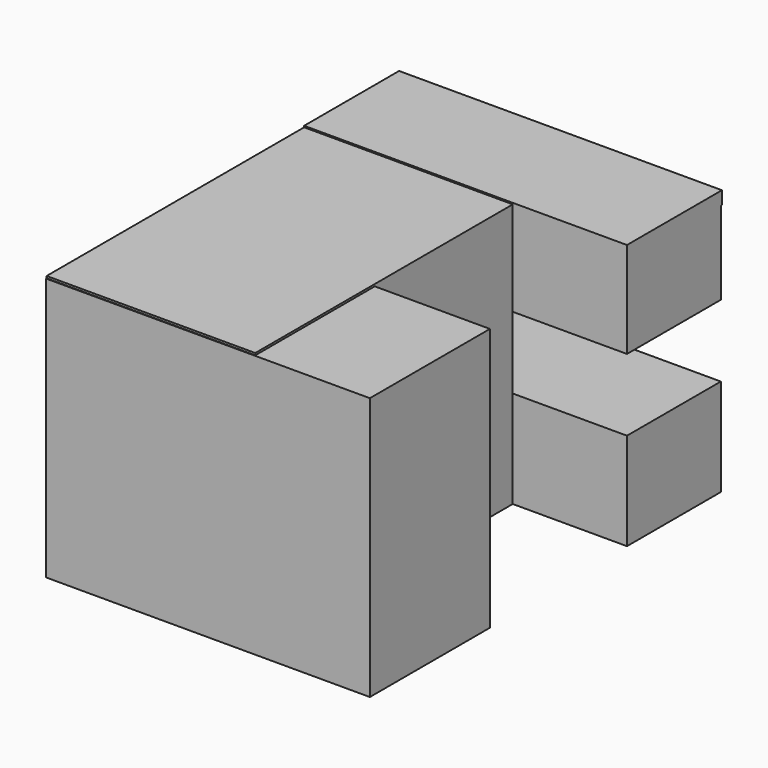
from build123d import *

# Parameters (mm, degrees)
F0_W     = 118.5401678085
F0_H     = 70.9766112268
F1_DEPTH = 56.134
F2_W     = 40.3737127781
F2_H     = 70.7922605798
F3_DEPTH = 87.122
F4_W     = 31.5654948354
F4_H     = 3.5027423874
F4_W_2   = 0.3687143326
F4_H_2   = 67.8425794467
F5_DEPTH = 86.868
F6_W     = 31.7498482764
F6_H     = 19.3572575226
F7_DEPTH = 92.71


with BuildPart() as f1:
    # F0 (on Right) → F1 (new body)
    with BuildSketch(Plane.YZ):
        with Locations((-27.3358747363, -19.541611895)):
            Rectangle(F0_W, F0_H)
    extrude(amount=F1_DEPTH)

    # F2 (on Right) → F3 (join)
    with BuildSketch(Plane.YZ):
        with Locations((-66.6034594178, -20.0025015511)):
            Rectangle(F2_W, F2_H)
    extrude(amount=F3_DEPTH)

    # F4 (on Right) → F5 (join)
    with BuildSketch(Plane.YZ):
        with Locations((15.7827474177, 14.564033132)):
            Rectangle(F4_W, F4_H)
        with Locations((31.7498520017, 14.564033132)):
            Rectangle(F4_W_2, F4_H)
        with Locations((15.7827474177, -21.108627785)):
            Rectangle(F4_W, F4_H_2)
    extrude(amount=F5_DEPTH)

    # F6 (on Right) → F7 (cut)
    with BuildSketch(Plane.YZ):
        with Locations((15.8749241382, -19.1729026847)):
            Rectangle(F6_W, F6_H)
    extrude(amount=F7_DEPTH, mode=Mode.SUBTRACT)


solid = f1.part
